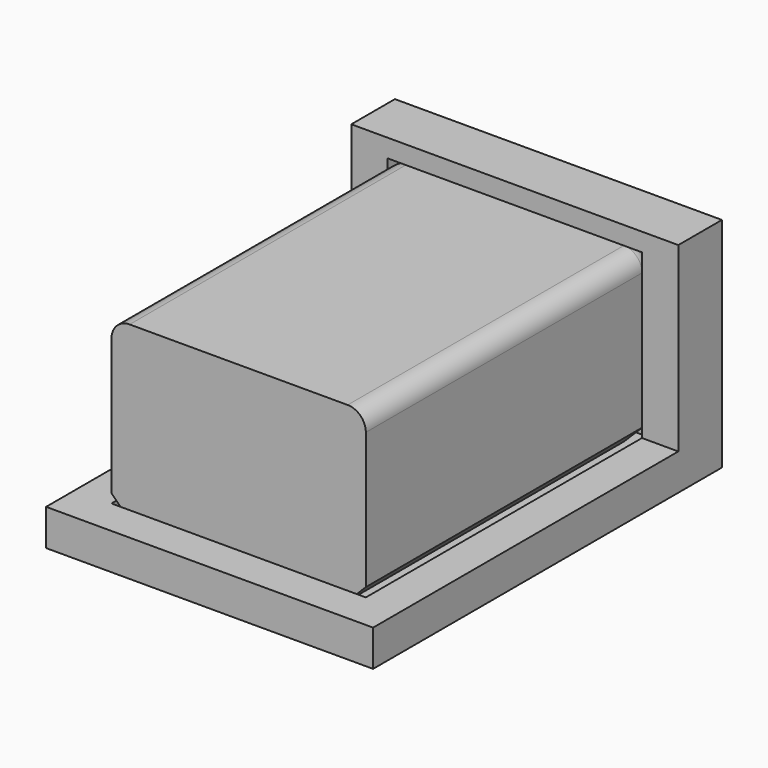
from build123d import *

# Parameters (mm, degrees)
F0_W     = 90
F0_H     = 120
F1_DEPTH = 10
F2_W     = 90
F2_H     = 15
F3_DEPTH = 50
F5_W     = 70
F5_H     = 100
F6_DEPTH = 47.5
F7_DEPTH = 47.5
F8_R     = 5
F9_SIZE  = 5


with BuildPart() as f1:
    # F0 (on Top) → F1 (new body)
    with BuildSketch(Plane.XY):
        with Locations((45, 60)):
            Rectangle(F0_W, F0_H)
    extrude(amount=F1_DEPTH)

    # F2 (on face) → F3 (join)
    with BuildSketch(Plane.XY.offset(10)):
        with Locations((45, 112.5)):
            Rectangle(F2_W, F2_H)
    extrude(amount=F3_DEPTH)

    # F5 (on offset) → F6 (cut)
    with BuildSketch(Plane.XY.offset(55)):
        with Locations((45, 60)):
            Rectangle(F5_W, F5_H)
        with Locations((45, 60)):
            Rectangle(F5_W, F5_H)
    extrude(amount=-F6_DEPTH, mode=Mode.SUBTRACT)


with BuildPart() as f7:
    # F7 (new, through all): a face of the model
    f7_faces = [f1.part.faces().sort_by_distance(p)[0] for p in [
        (45, 60, 7.5),
    ]]
    extrude(f7_faces, amount=F7_DEPTH)

    # F8
    f8_edges = [f7.edges().sort_by_distance(p)[0] for p in [
        (80, 60, 55),
        (10, 60, 55),
        (80, 110, 31.25),
        (45, 110, 55),
        (10, 110, 31.25),
    ]]
    fillet(f8_edges, radius=F8_R)

    # F9
    f9_edges = [f7.edges().sort_by_distance(p)[0] for p in [
        (80, 57.5, 7.5),
        (10, 57.5, 7.5),
    ]]
    chamfer(f9_edges, length=F9_SIZE)


solid = Compound([f1.part, f7.part])
